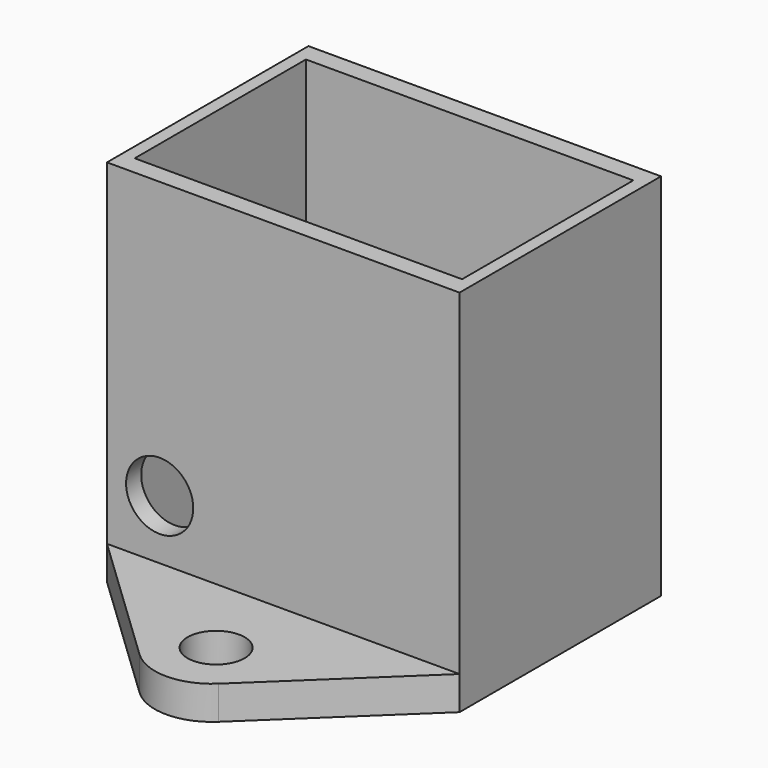
from build123d import *

# Parameters (mm, degrees)
F0_W     = 21
F0_H     = 15
F0_W_2   = 19.5
F0_H_2   = 12.75
F1_DEPTH = 22
F2_DEPTH = 1
F0_R     = 1.7
F3_DEPTH = 2
F4_R     = 3.4
F5_R     = 2
F6_DEPTH = 2.5


with BuildPart() as f1:
    # F0 (on Top) → F1 (new body)
    with BuildSketch(Plane.XY):
        with Locations((31.553322, -9.46031)):
            Rectangle(F0_W, F0_H)
        with Locations((31.553322, -9.46031)):
            Rectangle(F0_W_2, F0_H_2, mode=Mode.SUBTRACT)
    extrude(amount=F1_DEPTH)

    # F0 (on Top) → F2 (join)
    with BuildSketch(Plane.XY):
        with Locations((31.553322, -9.46031)):
            Rectangle(F0_W_2, F0_H_2)
    extrude(amount=F2_DEPTH)

    # F0 (on Top) → F3 (join)
    with BuildSketch(Plane.XY):
        Polygon((31.553322, 8.03969), (21.053322, -1.96031), (42.053322, -1.96031), align=None)
        with Locations((31.553322, 3.03969)):
            Circle(F0_R, mode=Mode.SUBTRACT)
        Polygon((42.053322, -16.96031), (21.053322, -16.96031), (31.553322, -26.96031), align=None)
        with Locations((31.553322, -21.96031)):
            Circle(F0_R, mode=Mode.SUBTRACT)
    extrude(amount=F3_DEPTH)

    # F4
    f4_edges = [f1.edges().sort_by_distance(p)[0] for p in [
        (31.553322, 8.03969, 1),
        (31.553322, -26.96031, 1),
    ]]
    fillet(f4_edges, radius=F4_R)

    # F5 (on face) → F6 (cut)
    with BuildSketch(Plane.XZ.offset(16.96031)):
        with Locations((24.191299, 5.534078)):
            Circle(F5_R)
    extrude(amount=-F6_DEPTH, mode=Mode.SUBTRACT)


solid = f1.part
